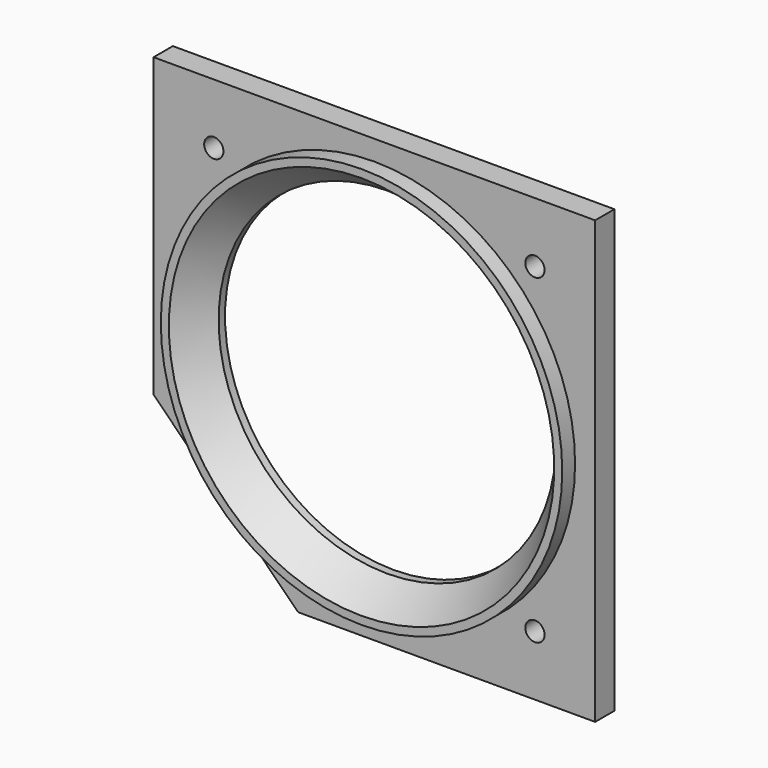
from build123d import *

# Parameters (mm, degrees)
F3_R     = 1.2
F3_R_2   = 25
F4_DEPTH = 3


with BuildPart() as f1:
    # F0 (on Right) → F1 (revolve)
    with BuildSketch(Plane.YZ):
        Polygon((2, 25), (-3, 25), (-3, 24), (1, 21), (2, 21), align=None)
    revolve(axis=Axis((0, 1.602868, 0), (0, -1, 0)))

    # F3 (on offset) → F4 (join)
    with BuildSketch(Plane.XZ.offset(1)):
        Polygon((-9.5, -27.5), (27.5, -27.5), (27.5, 27.5), (-27.5, 27.5), (-27.5, -9.5), align=None)
        with Locations((20, -20)):
            Circle(F3_R, mode=Mode.SUBTRACT)
        with Locations((-20, 20)):
            Circle(F3_R, mode=Mode.SUBTRACT)
        Circle(F3_R_2, mode=Mode.SUBTRACT)
        with Locations((20, 20)):
            Circle(F3_R, mode=Mode.SUBTRACT)
    extrude(amount=-F4_DEPTH)


solid = f1.part
